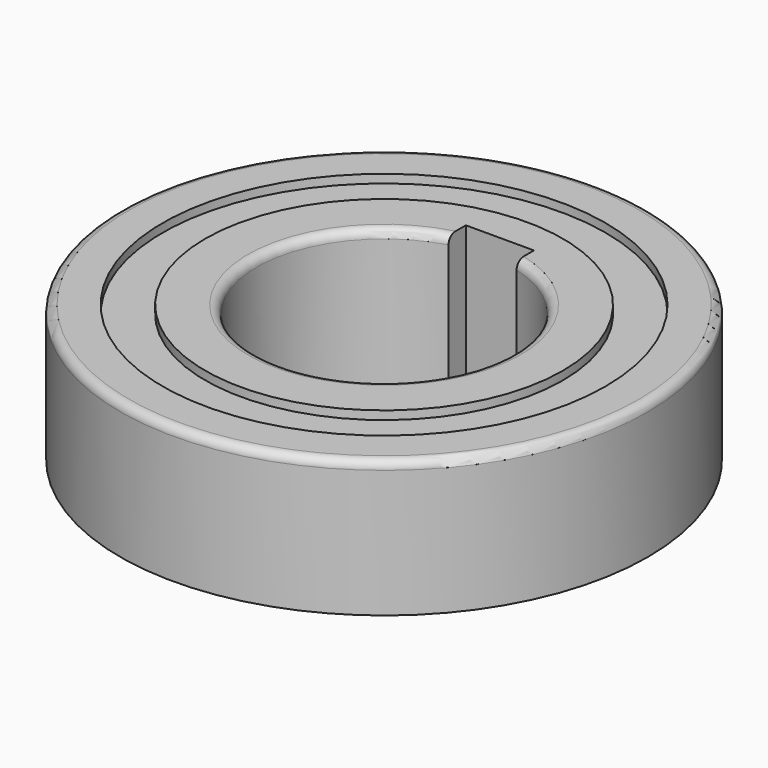
from build123d import *

# Parameters (mm, degrees)
F0_R     = 31
F1_DEPTH = 16
F2_R     = 26
F2_R_2   = 21
F3_DEPTH = 1
F4_R     = 15
F5_DEPTH = 25
F6_W     = 8
F6_H     = 3
F7_DEPTH = 25
F8_R     = 1


with BuildPart() as f1:
    # F0 (on Top) → F1 (new body)
    with BuildSketch(Plane.XY):
        Circle(F0_R)
    extrude(amount=F1_DEPTH)

    # F2 (on face) → F3 (cut)
    with BuildSketch(Plane.XY.offset(16)):
        Circle(F2_R)
        Circle(F2_R_2, mode=Mode.SUBTRACT)
    extrude(amount=-F3_DEPTH, mode=Mode.SUBTRACT)

    # F4 (on face) → F5 (cut)
    with BuildSketch(Plane.XY.offset(16)):
        Circle(F4_R)
    extrude(amount=-F5_DEPTH, mode=Mode.SUBTRACT)

    # F6 (on face) → F7 (cut)
    with BuildSketch(Plane.XY.offset(16)):
        with Locations((0, 15.5)):
            Rectangle(F6_W, F6_H)
    extrude(amount=-F7_DEPTH, mode=Mode.SUBTRACT)

    # F8
    f8_edges = [f1.edges().sort_by_distance(p)[0] for p in [
        (0, -15, 16),
        (-31, 0, 16),
    ]]
    fillet(f8_edges, radius=F8_R)


solid = f1.part
